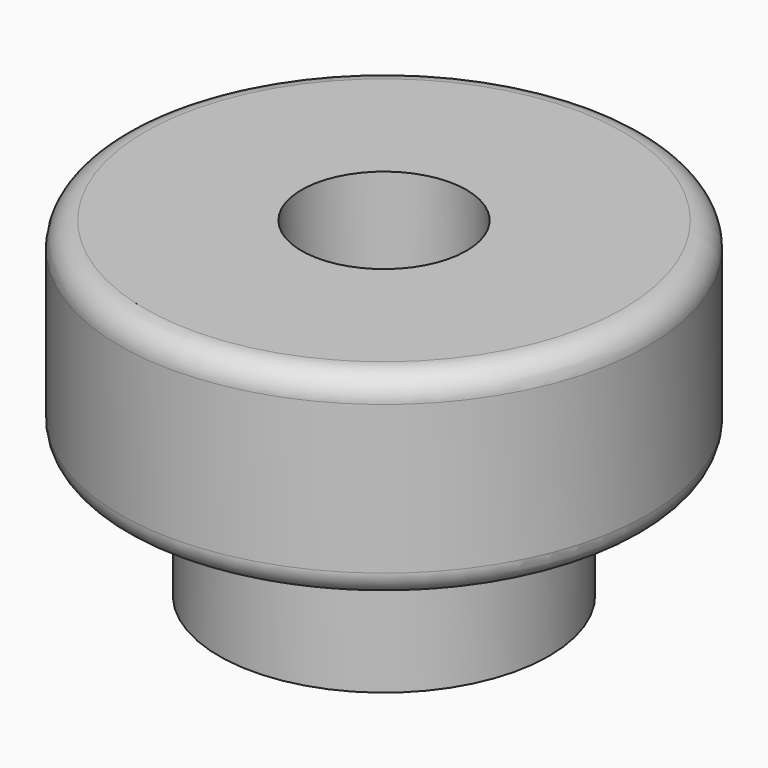
from build123d import *

# Parameters (mm, degrees)
F0_R           = 16
F1_DEPTH       = 12
F2_R           = 10
F3_DEPTH       = 8
F5_D           = 7
F5_CBORE_D     = 10
F5_CBORE_DEPTH = 7
F6_R           = 1.5


with BuildPart() as f1:
    # F0 (on Top) → F1 (new body)
    with BuildSketch(Plane.XY):
        Circle(F0_R)
    extrude(amount=F1_DEPTH)

    # F2 (on face) → F3 (join)
    with BuildSketch(Plane(origin=(0, 0, 0), x_dir=(1, 0, 0), z_dir=(0, 0, -1))):
        Circle(F2_R)
    extrude(amount=F3_DEPTH)

    # F5 (through all)
    with Locations(Plane.XY.offset(12)):
        with Locations((0, 0)):
            CounterBoreHole(F5_D / 2, F5_CBORE_D / 2, F5_CBORE_DEPTH)

    # F6
    f6_edges = [f1.edges().sort_by_distance(p)[0] for p in [
        (-16, 0, 12),
        (-16, 0, 0),
        (-10, 0, 0),
    ]]
    fillet(f6_edges, radius=F6_R)


solid = f1.part
